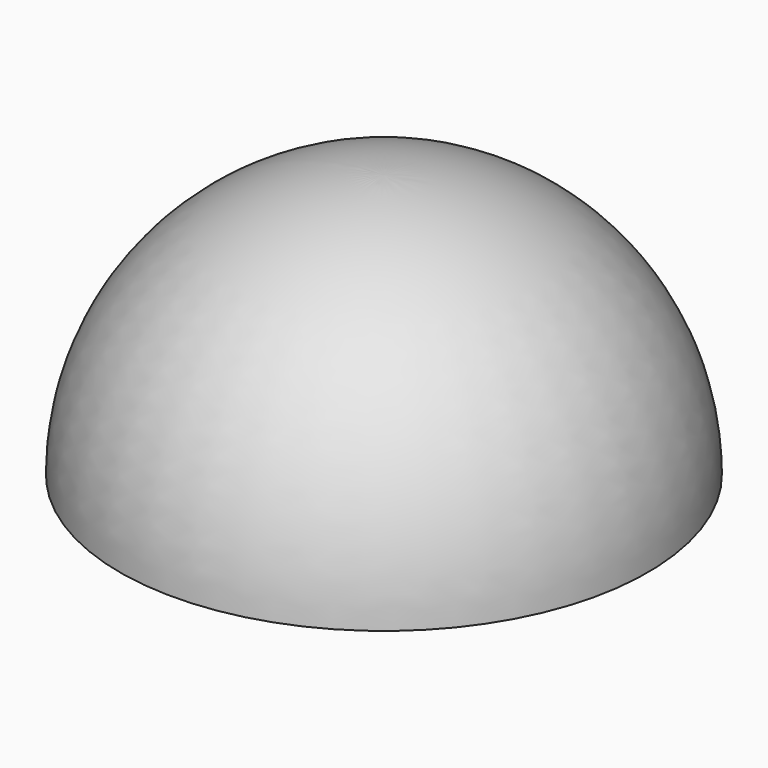
from build123d import *

# Parameters (mm, degrees)
F3_ANGLE = 5


with BuildPart() as f1:
    # F0 (on Front) → F1 (revolve)
    with BuildSketch(Plane.XZ):
        with BuildLine():
            Line((0, 36.7), (0, 37.5))
            ThreePointArc((0, 37.5), (-26.516504, 26.516504), (-37.5, 0))
            Line((-37.5, 0), (-36.3, 0))
            ThreePointArc((-36.3, 0), (-36.289192, 0.900259), (-36.256775, 1.8))
            ThreePointArc((-36.256775, 1.8), (-32.751337, 15.923464), (-24.133333, 27.649091))
            ThreePointArc((-24.133333, 27.649091), (-12.887365, 34.362855), (0, 36.7))
        make_face()
        with BuildLine():
            ThreePointArc((-36.256775, 1.8), (-36.289192, 0.900259), (-36.3, 0))
            Line((-36.3, 0), (-35.7, 0.6))
            Line((-35.7, 0.6), (-35.1, 0))
            Line((-35.1, 0), (-34.5, 0.6))
            Line((-34.5, 0.6), (-35.7, 1.8))
            Line((-35.7, 1.8), (-36.256775, 1.8))
        make_face()
    revolve(axis=Axis((0, 0, 37.1), (0, 0, -1)))

    # F2 (on Front) → F3 (revolve, symmetric, cut)
    with BuildSketch(Plane.XZ) as f3_sk:
        with BuildLine():
            Line((-34.5, 1.8), (-36.256775, 1.8))
            ThreePointArc((-36.256775, 1.8), (-36.289192, 0.900259), (-36.3, 0))
            Line((-36.3, 0), (-34.5, 0))
            Line((-34.5, 0), (-34.5, 1.8))
        make_face()
        with BuildLine():
            Line((34.5, 1.8), (34.5, 0))
            Line((34.5, 0), (36.3, 0))
            ThreePointArc((36.3, 0), (36.289192, 0.900259), (36.256775, 1.8))
            Line((36.256775, 1.8), (34.5, 1.8))
        make_face()
    revolve(axis=Axis((0, 0, 2.421974), (0, 0, 1)), revolution_arc=F3_ANGLE / 2, mode=Mode.SUBTRACT)
    revolve(f3_sk.sketch, axis=Axis((0, 0, 2.421974), (0, 0, -1)), revolution_arc=F3_ANGLE / 2, mode=Mode.SUBTRACT)


solid = f1.part
